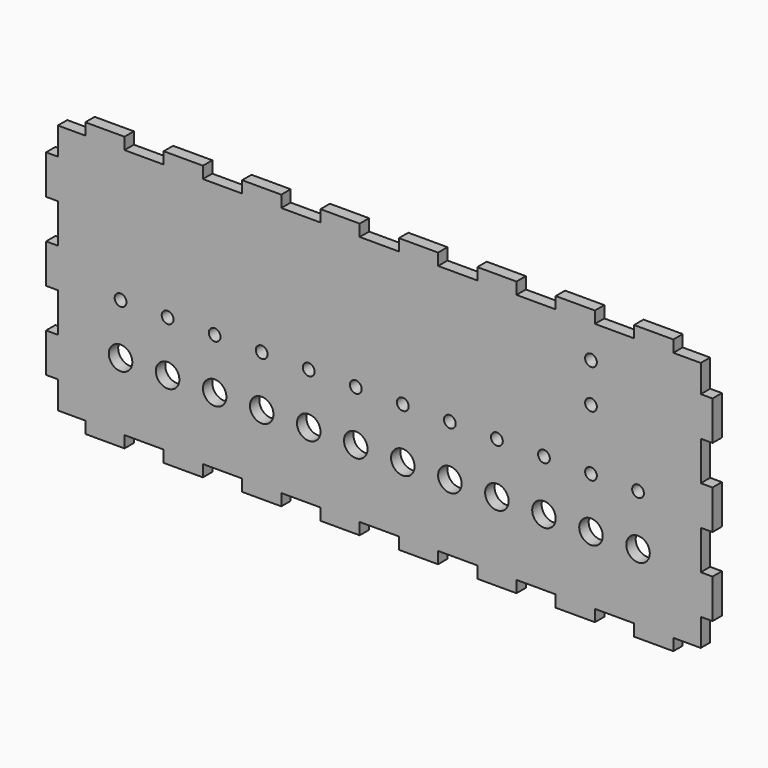
from build123d import *

# Parameters (mm, degrees)
F0_W     = 170
F0_H     = 70
F1_DEPTH = 3
F2_R     = 3
F3_DEPTH = 3.001
F4_R     = 1.5
F5_DEPTH = 3.001
F6_R     = 1.5
F7_DEPTH = 3.001
F8_W     = 3
F8_H     = 3
F8_W_2   = 7
F8_W_3   = 10
F8_H_2   = 7
F9_DEPTH = 3.001


with BuildPart() as f1:
    # F0 (on Front) → F1 (new body)
    with BuildSketch(Plane.XZ):
        Rectangle(F0_W, F0_H)
    extrude(amount=F1_DEPTH)

    # F2 (on face) → F3 (cut, through all)
    with BuildSketch(Plane.XZ.offset(3)):
        with Locations((66, -15)):
            Circle(F2_R)
        with Locations((54, -15)):
            Circle(F2_R)
        with Locations((42, -15)):
            Circle(F2_R)
        with Locations((30, -15)):
            Circle(F2_R)
        with Locations((18, -15)):
            Circle(F2_R)
        with Locations((6, -15)):
            Circle(F2_R)
        with Locations((-6, -15)):
            Circle(F2_R)
        with Locations((-18, -15)):
            Circle(F2_R)
        with Locations((-30, -15)):
            Circle(F2_R)
        with Locations((-42, -15)):
            Circle(F2_R)
        with Locations((-54, -15)):
            Circle(F2_R)
        with Locations((-66, -15)):
            Circle(F2_R)
    extrude(amount=-F3_DEPTH, mode=Mode.SUBTRACT)

    # F4 (on face) → F5 (cut, through all)
    with BuildSketch(Plane.XZ.offset(3)):
        with Locations((-66, -2)):
            Circle(F4_R)
        with Locations((-54, -2)):
            Circle(F4_R)
        with Locations((-42, -2)):
            Circle(F4_R)
        with Locations((-30, -2)):
            Circle(F4_R)
        with Locations((-18, -2)):
            Circle(F4_R)
        with Locations((-6, -2)):
            Circle(F4_R)
        with Locations((6, -2)):
            Circle(F4_R)
        with Locations((18, -2)):
            Circle(F4_R)
        with Locations((30, -2)):
            Circle(F4_R)
        with Locations((42, -2)):
            Circle(F4_R)
        with Locations((54, -2)):
            Circle(F4_R)
        with Locations((66, -2)):
            Circle(F4_R)
    extrude(amount=-F5_DEPTH, mode=Mode.SUBTRACT)

    # F6 (on face) → F7 (cut, through all)
    with BuildSketch(Plane.XZ.offset(3)):
        with Locations((54, 13.5)):
            Circle(F6_R)
        with Locations((54, 23.5)):
            Circle(F6_R)
    extrude(amount=-F7_DEPTH, mode=Mode.SUBTRACT)

    # F8 (on face) → F9 (cut, through all)
    with BuildSketch(Plane.XZ.offset(3)):
        with Locations((-83.5, -33.5)):
            Rectangle(F8_W, F8_H)
        with Locations((-78.5, -33.5)):
            Rectangle(F8_W_2, F8_H)
        Polygon((-85, -28), (-85, -32), (-82, -32), (-82, -25), (-85, -25), align=None)
        with Locations((-60, -33.5)):
            Rectangle(F8_W_3, F8_H)
        with Locations((-40, -33.5)):
            Rectangle(F8_W_3, F8_H)
        with Locations((-20, -33.5)):
            Rectangle(F8_W_3, F8_H)
        with Locations((0, -33.5)):
            Rectangle(F8_W_3, F8_H)
        with Locations((20, -33.5)):
            Rectangle(F8_W_3, F8_H)
        with Locations((40, -33.5)):
            Rectangle(F8_W_3, F8_H)
        with Locations((60, -33.5)):
            Rectangle(F8_W_3, F8_H)
        with Locations((83.5, -33.5)):
            Rectangle(F8_W, F8_H)
        Polygon((82, -32), (85, -32), (85, -28), (85, -25), (82, -25), align=None)
        with Locations((78.5, -33.5)):
            Rectangle(F8_W_2, F8_H)
        with Locations((-60, 33.5)):
            Rectangle(F8_W_3, F8_H)
        with Locations((-20, 33.5)):
            Rectangle(F8_W_3, F8_H)
        with Locations((-40, 33.5)):
            Rectangle(F8_W_3, F8_H)
        with Locations((0, 33.5)):
            Rectangle(F8_W_3, F8_H)
        with Locations((-83.5, 33.5)):
            Rectangle(F8_W, F8_H)
        with Locations((-83.5, 28.5)):
            Rectangle(F8_W, F8_H_2)
        with Locations((-78.5, 33.5)):
            Rectangle(F8_W_2, F8_H)
        with Locations((78.5, 33.5)):
            Rectangle(F8_W_2, F8_H)
        with Locations((83.5, 33.5)):
            Rectangle(F8_W, F8_H)
        with Locations((83.5, 28.5)):
            Rectangle(F8_W, F8_H_2)
        with Locations((20, 33.5)):
            Rectangle(F8_W_3, F8_H)
        with Locations((40, 33.5)):
            Rectangle(F8_W_3, F8_H)
        with Locations((60, 33.5)):
            Rectangle(F8_W_3, F8_H)
        Polygon((-82, 5), (-82, 15), (-85, 15), (-85, 12), (-85, 5), align=None)
        Polygon((-82, -15), (-82, -5), (-85, -5), (-85, -8), (-85, -15), align=None)
        Polygon((85, 12), (85, 15), (82, 15), (82, 5), (85, 5), align=None)
        Polygon((85, -8), (85, -5), (82, -5), (82, -15), (85, -15), align=None)
    extrude(amount=-F9_DEPTH, mode=Mode.SUBTRACT)


solid = f1.part
